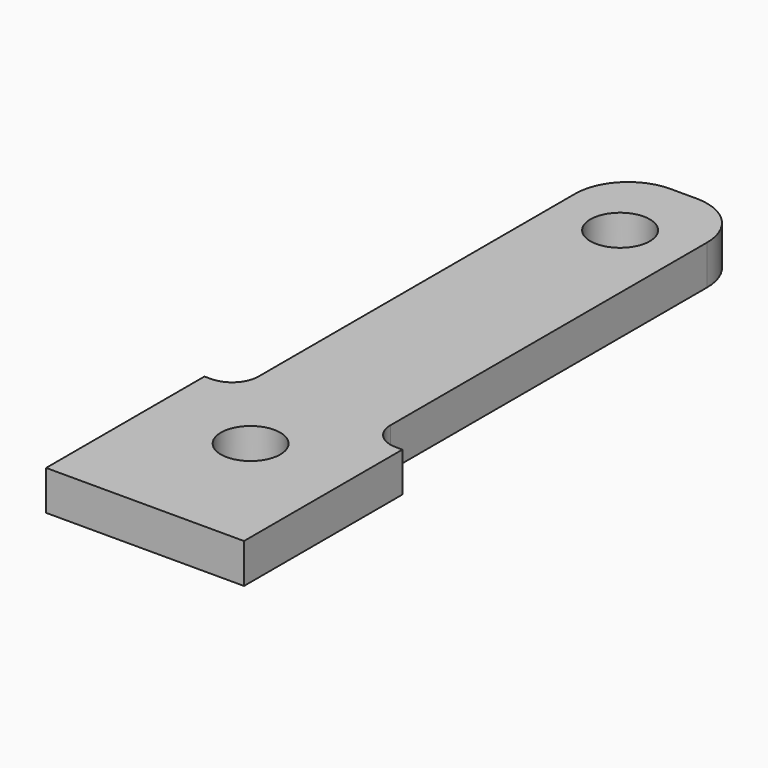
from build123d import *

# Parameters (mm, degrees)
SKETCH_W     = 10
SKETCH_H     = 51
SKETCH_R     = 2.25
PAD_DEPTH    = 3
FILLET_R     = 4
SKETCH001_W  = 15
SKETCH001_H  = 3
PAD001_DEPTH = 2.5
SKETCH002_W  = 15
SKETCH002_H  = 3
PAD002_DEPTH = 2.5
FILLET001_R  = 2


with BuildPart() as part:
    # Sketch → Pad (new body)
    with BuildSketch(Plane.XY):
        with Locations((5, 25.5)):
            Rectangle(SKETCH_W, SKETCH_H)
        with Locations((5, 45)):
            Circle(SKETCH_R, mode=Mode.SUBTRACT)
        with Locations((5, 10)):
            Circle(SKETCH_R, mode=Mode.SUBTRACT)
    extrude(amount=PAD_DEPTH)

    # Fillet
    fillet_edges = [part.edges().sort_by_distance(p)[0] for p in [
        (0, 51, 1.5),
        (10, 51, 1.5),
    ]]
    fillet(fillet_edges, radius=FILLET_R)

    # Sketch001 (on Face7 of Fillet) → Pad001 (join)
    with BuildSketch(Plane(origin=(0, 0, 0), x_dir=(0, -1, 0), z_dir=(-1, 0, 0))):
        with Locations((-7.5, 1.5)):
            Rectangle(SKETCH001_W, SKETCH001_H)
    extrude(amount=PAD001_DEPTH)

    # Sketch002 (on Face1 of Pad001) → Pad002 (join)
    with BuildSketch(Plane.YZ.offset(10)):
        with Locations((7.5, 1.5)):
            Rectangle(SKETCH002_W, SKETCH002_H)
    extrude(amount=PAD002_DEPTH)

    # Fillet001
    fillet001_edges = [part.edges().sort_by_distance(p)[0] for p in [
        (0, 15, 1.5),
        (10, 15, 1.5),
    ]]
    fillet(fillet001_edges, radius=FILLET001_R)


solid = part.part
